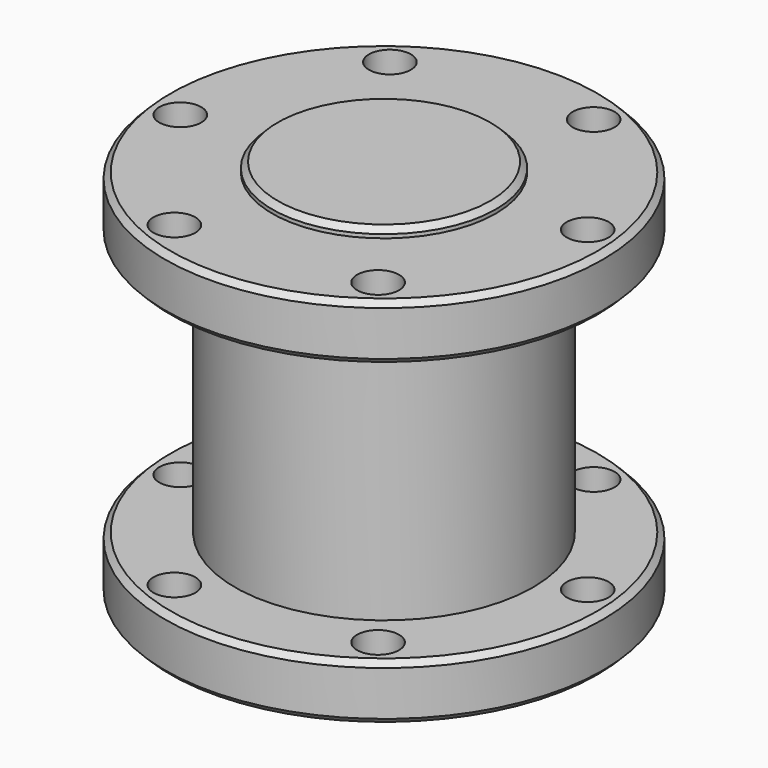
from build123d import *

# Parameters (mm, degrees)
F0_R      = 74.6125
F1_DEPTH  = 19.05
F2_R      = 50.8
F3_DEPTH  = 88.9
F4_R      = 74.6125
F5_DEPTH  = 19.05
F6_R      = 7.14375
F7_DEPTH  = 127.001
F8_R      = 38.1
F9_DEPTH  = 3.175
F10_R     = 38.1
F11_DEPTH = 120.65
F12_SIZE  = 1.905


with BuildPart() as f1:
    # F0 (on Top) → F1 (new body)
    with BuildSketch(Plane.XY):
        Circle(F0_R)
    extrude(amount=F1_DEPTH)

    # F2 (on face) → F3 (join)
    with BuildSketch(Plane.XY.offset(19.05)):
        Circle(F2_R)
    extrude(amount=F3_DEPTH)

    # F4 (on face) → F5 (join)
    with BuildSketch(Plane.XY.offset(107.95)):
        Circle(F4_R)
    extrude(amount=F5_DEPTH)

    # F6 (on face) → F7 (cut, through all)
    with BuildSketch(Plane.XY.offset(127)):
        with Locations((24.5654228837, 58.5558707436)):
            Circle(F6_R)
        with Locations((-38.4281601629, 50.5522156438)):
            Circle(F6_R)
        with Locations((-62.9935830465, -8.0036550999)):
            Circle(F6_R)
        with Locations((-24.5654228837, -58.5558707436)):
            Circle(F6_R)
        with Locations((38.4281601629, -50.5522156438)):
            Circle(F6_R)
        with Locations((62.9935830465, 8.0036550999)):
            Circle(F6_R)
    extrude(amount=-F7_DEPTH, mode=Mode.SUBTRACT)

    # F8 (on face) → F9 (join)
    with BuildSketch(Plane.XY.offset(127)):
        Circle(F8_R)
    extrude(amount=F9_DEPTH)

    # F10 (on face) → F11 (cut)
    with BuildSketch(Plane(origin=(0, 0, 0), x_dir=(1, 0, 0), z_dir=(0, 0, -1))):
        Circle(F10_R)
    extrude(amount=-F11_DEPTH, mode=Mode.SUBTRACT)

    # F12
    f12_edges = [f1.edges().sort_by_distance(p)[0] for p in [
        (-74.6125, 0, 0),
        (-38.1, 0, 0),
        (-74.6125, 0, 19.05),
        (-74.6125, 0, 107.95),
        (-74.6125, 0, 127),
        (-38.1, 0, 130.175),
    ]]
    chamfer(f12_edges, length=F12_SIZE)


solid = f1.part
